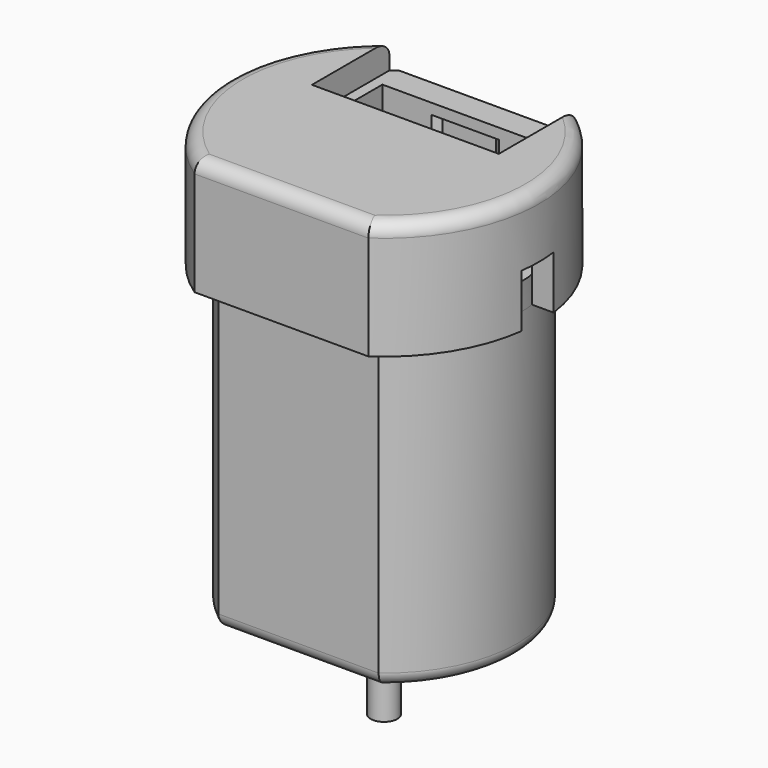
from build123d import *

# Parameters (mm, degrees)
PAD_DEPTH                      = 10.95
PAD001_DEPTH                   = 0.4
FILLET_R                       = 0.5
FILLET001_R                    = 0.5
SKETCH002_R                    = 2
PAD002_DEPTH                   = 0.5
SKETCH003_R                    = 0.5
POCKET_DEPTH                   = 46.7464158201
PAD003_DEPTH                   = 8.55
SKETCH005_R                    = 0.5
PAD004_DEPTH                   = 5.3
PAD005_DEPTH                   = 4.8
PAD005_MIRRORED003_2_DEPTH     = 4.8
POLARPATTERN_COUNT             = 3
PAD006_DEPTH                   = 1.5
POLARPATTERN001_COUNT          = 3
SKETCH008_R                    = 3
PAD007_DEPTH                   = 1.5
SKETCH009_R                    = 1.1
PAD008_DEPTH                   = 2.3
SKETCH010_R                    = 0.5
PAD009_DEPTH                   = 2.3
PAD010_DEPTH                   = 1
SKETCH012_R                    = 2
PAD011_DEPTH                   = 1
SKETCH013_R                    = 0.6
POCKET001_DEPTH                = 2.001
PAD012_DEPTH                   = 2
POCKET002_DEPTH                = 1.99
POCKET003_DEPTH                = 28.84381573
POLARPATTERN002_COUNT          = 2
SKETCH073_R                    = 1.5
POCKET037_DEPTH                = 1
SKETCH074_R                    = 2
POCKET038_DEPTH                = 1
PAD013_DEPTH                   = 1
BODY004_PLACEMENT_ANGLE        = 180
SKETCH083_R                    = 1.5
SKETCH083_R_2                  = 0.5
PAD040_DEPTH                   = 1
PAD046_DEPTH                   = 3.4
PAD045_DEPTH                   = 2.4
PAD045_POLARPATTERN007_2_DEPTH = 2.4
PAD047_DEPTH                   = 0.4
POCKET042_DEPTH                = 3.401
PAD044_DEPTH                   = 1
POCKET043_DEPTH                = 1
POCKET044_DEPTH                = 1.99
FILLET003_R                    = 0.5


with BuildPart() as body:
    # Sketch → Pad (new body)
    with BuildSketch(Plane.XY):
        with BuildLine():
            ThreePointArc((2.8635642127, -3.6), (4.6, 0), (2.8635642127, 3.6))
            Line((2.8635642127, 3.6), (0, 3.6))
            Line((0, 4), (0, 3.6))
            Line((3, 4), (0, 4))
            ThreePointArc((3, -4), (5, 0), (3, 4))
            Line((3, -4), (0, -4))
            Line((0, -3.6), (0, -4))
            Line((2.8635642127, -3.6), (0, -3.6))
        make_face()
    pad = extrude(amount=-PAD_DEPTH)

    # Mirrored: Pad across Sketch V_Axis
    add(pad.mirror(Plane(origin=(0, 0, 0), x_dir=(0, 0, 1), z_dir=(1, 0, 0))))

    # Sketch001 (on Face5 of Mirrored) → Pad001 (join)
    with BuildSketch(Plane(origin=(0, 0, -10.95), x_dir=(1, 0, 0), z_dir=(0, 0, -1))):
        with BuildLine():
            ThreePointArc((-3, 4), (-5, 0), (-3, -4))
            Line((-3, -4), (3, -4))
            ThreePointArc((3, -4), (5, 0), (3, 4))
            Line((3, 4), (-3, 4))
        make_face()
    extrude(amount=PAD001_DEPTH)

    # Fillet
    fillet_edges = [body.edges().sort_by_distance(p)[0] for p in [
        (1.431782, 3.6, -10.95),
        (4.6, 0, -10.95),
        (-4.6, 0, -10.95),
        (-1.431782, -3.6, -10.95),
    ]]
    fillet(fillet_edges, radius=FILLET_R)

    # Fillet001
    fillet001_edges = [body.edges().sort_by_distance(p)[0] for p in [
        (-5, 0, -11.35),
        (0, 4, -11.35),
        (5, 0, -11.35),
        (0, -4, -11.35),
    ]]
    fillet(fillet001_edges, radius=FILLET001_R)

    # Sketch002 (on Face8 of Fillet001) → Pad002 (join)
    with BuildSketch(Plane(origin=(0, 0, -11.35), x_dir=(1, 0, 0), z_dir=(0, 0, -1))):
        Circle(SKETCH002_R)
    extrude(amount=PAD002_DEPTH)

    # Sketch003 (on Face26 of Pad002) → Pocket (cut, through all)
    with BuildSketch(Plane(origin=(0, 0, -11.85), x_dir=(1, 0, 0), z_dir=(0, 0, -1))):
        Circle(SKETCH003_R)
        with Locations((3.25, 0)):
            Circle(SKETCH003_R)
    pocket = extrude(amount=-POCKET_DEPTH, mode=Mode.SUBTRACT)

    # Mirrored001: Pocket across Sketch003 V_Axis
    add(pocket.mirror(Plane(origin=(0, 0, -11.85), x_dir=(0, 0, -1), z_dir=(1, 0, 0))), mode=Mode.SUBTRACT)

    # Sketch004 (on Face28 of Mirrored001) → Pad003 (join)
    with BuildSketch(Plane.XY.offset(-10.95)):
        with BuildLine():
            ThreePointArc((2.8635642127, -3.6), (4.6, 0), (2.8635642127, 3.6))
            Line((2.8635642127, 3.6), (1.8635642126, 3.6))
            ThreePointArc((1.8635642126, -3.6), (3.5999999999, 0), (1.8635642126, 3.6))
            Line((2.8635642127, -3.6), (1.8635642127, -3.6))
        make_face()
    pad003 = extrude(amount=PAD003_DEPTH)

    # Mirrored002: Pad003 across Sketch004 V_Axis
    add(pad003.mirror(Plane(origin=(0, 0, -10.95), x_dir=(0, 0, 1), z_dir=(1, 0, 0))))


with BuildPart() as body001:
    # Sketch005 → Pad004 (new body)
    with BuildSketch(Plane.XY):
        Circle(SKETCH005_R)
    extrude(amount=PAD004_DEPTH)

    # Sketch006 (on Face3 of Pad004) → Pad005 (join)
    with BuildSketch(Plane.XY.offset(5.3)):
        with BuildLine():
            Line((0, 0), (0, 3.5))
            ThreePointArc((2.5545302786, 2.3925666251), (1.3921237036, 3.211228985), (0, 3.5))
            Line((2.5545302786, 2.3925666251), (1.9706376435, 1.8456942537))
            Line((0.5, 1.8456942537), (1.9706376435, 1.8456942537))
            Line((0.5, 1.8456942537), (0.5, 0))
            Line((0, 0), (0.5, 0))
        make_face()
    pad005 = extrude(amount=PAD005_DEPTH)

    # Sketch006 Mirrored003 2 → Pad005 Mirrored003 2 (add)
    with BuildSketch(Plane(origin=(0, 0, 5.3), x_dir=(-1, 0, 0), z_dir=(0, 0, -1))):
        with BuildLine():
            Line((0, 0), (0, 3.5))
            ThreePointArc((2.5545302786, 2.3925666251), (1.3921237036, 3.211228985), (0, 3.5))
            Line((2.5545302786, 2.3925666251), (1.9706376435, 1.8456942537))
            Line((0.5, 1.8456942537), (1.9706376435, 1.8456942537))
            Line((0.5, 1.8456942537), (0.5, 0))
            Line((0, 0), (0.5, 0))
        make_face()
    pad005_mirrored003_2 = extrude(amount=-PAD005_MIRRORED003_2_DEPTH)

    # PolarPattern: Pad005, Pad005 Mirrored003 2 ×3 about axis
    polarpattern_axis = Axis((0, 0, 5.3), (0, 0, 1))
    for i in range(1, POLARPATTERN_COUNT):
        add(pad005.rotate(polarpattern_axis, i * 360 / POLARPATTERN_COUNT))
        add(pad005_mirrored003_2.rotate(polarpattern_axis, i * 360 / POLARPATTERN_COUNT))

    # Sketch007 (on Face32 of MultiTransform) → Pad006 (join)
    with BuildSketch(Plane.XZ.offset(-1.8456942537)):
        with BuildLine():
            add(Edge.make_bspline(
                [(0, 4.3), (4.3301270189, 4.3), (2.1650635095, 9.4), (0, 14.5), (-2.1650635095, 9.4), (-4.3301270189, 4.3), (0, 4.3)],
                knots=[0, 0, 0, 2.0943951024, 2.0943951024, 4.1887902048, 4.1887902048, 6.2831853072, 6.2831853072, 6.2831853072], degree=2, weights=[1, 0.5, 1, 0.5, 1, 0.5, 1]))
        make_face()
    pad006 = extrude(amount=PAD006_DEPTH)

    # PolarPattern001: Pad006 ×3 about axis
    polarpattern001_axis = Axis((0, 0, 0), (0, 0, 1))
    for i in range(1, POLARPATTERN001_COUNT):
        add(pad006.rotate(polarpattern001_axis, i * 360 / POLARPATTERN001_COUNT))

    # Sketch008 (on DatumPlane) → Pad007 (join)
    with BuildSketch(Plane.XY.offset(12.5)):
        Circle(SKETCH008_R)
    extrude(amount=-PAD007_DEPTH)

    # Sketch009 (on Face87 of Pad007) → Pad008 (join)
    with BuildSketch(Plane.XY.offset(12.5)):
        Circle(SKETCH009_R)
    extrude(amount=PAD008_DEPTH)

    # Sketch010 (on Face95 of Pad008) → Pad009 (join)
    with BuildSketch(Plane.XY.offset(14.8)):
        Circle(SKETCH010_R)
    extrude(amount=PAD009_DEPTH)


with BuildPart() as body001_1:
    # Body001 placement: moved
    add(body001.part.moved(Location((0, 0, -14.8))))


with BuildPart() as body002:
    # Sketch011 → Pad010 (new body)
    with BuildSketch(Plane.XY):
        with BuildLine():
            ThreePointArc((3, -4), (5, 0), (3, 4))
            Line((3, 4), (0, 4))
            Line((0, 4), (0, -4))
            Line((0, -4), (3, -4))
        make_face()
    pad010 = extrude(amount=PAD010_DEPTH)

    # Mirrored004: Pad010 across Sketch011 V_Axis
    add(pad010.mirror(Plane(origin=(0, 0, 0), x_dir=(0, 0, 1), z_dir=(1, 0, 0))))

    # Sketch012 (on Face5 of Mirrored004) → Pad011 (join)
    with BuildSketch(Plane.XY.offset(1)):
        Circle(SKETCH012_R)
    extrude(amount=PAD011_DEPTH)

    # Sketch013 (on Face4 of Pad011) → Pocket001 (cut, through all)
    with BuildSketch(Plane(origin=(0, 0, 0), x_dir=(1, 0, 0), z_dir=(0, 0, -1))):
        Circle(SKETCH013_R)
    extrude(amount=-POCKET001_DEPTH, mode=Mode.SUBTRACT)

    # Sketch014 (on Face4 of Pocket001) → Pad012 (join)
    with BuildSketch(Plane(origin=(0, 0, 0), x_dir=(1, 0, 0), z_dir=(0, 0, -1))):
        with BuildLine():
            ThreePointArc((2.8635642127, -3.6), (4.6, 0), (2.8635642127, 3.6))
            Line((2.8635642127, 3.6), (2.4635642127, 3.6))
            Line((2.4635642127, 3.6), (2.4635642127, -3.6))
            Line((2.8635642127, -3.6), (2.4635642127, -3.6))
        make_face()
    pad012 = extrude(amount=PAD012_DEPTH)

    # Sketch015 (on Face18 of Pad012) → Pocket002 (cut)
    with BuildSketch(Plane(origin=(0, 0, -2), x_dir=(1, 0, 0), z_dir=(0, 0, -1))):
        Polygon((3.1, 2), (3.6, 2), (3.6, -2), (3.6, -4.122773), (2.06757, -4.122773), (2.06757, -2), (3.1, -2), align=None)
    pocket002 = extrude(amount=-POCKET002_DEPTH, mode=Mode.SUBTRACT)

    # Sketch016 (on Face18 of Pocket002) → Pocket003 (cut, through all)
    with BuildSketch(Plane(origin=(0, 0, -0.01), x_dir=(1, 0, 0), z_dir=(0, 0, -1))):
        Polygon((3.1, 0.8), (3.6, 0.8), (3.6, 0), (3.6, -0.8), (3.1, -0.8), align=None)
    pocket003 = extrude(amount=-POCKET003_DEPTH, mode=Mode.SUBTRACT)

    # PolarPattern002: Pad012, Pocket002, Pocket003 ×2 about axis
    polarpattern002_axis = Axis((0, 0, 0), (0, 0, 1))
    for i in range(1, POLARPATTERN002_COUNT):
        add(pad012.rotate(polarpattern002_axis, i * 360 / POLARPATTERN002_COUNT))
        add(pocket002.rotate(polarpattern002_axis, i * 360 / POLARPATTERN002_COUNT), mode=Mode.SUBTRACT)
        add(pocket003.rotate(polarpattern002_axis, i * 360 / POLARPATTERN002_COUNT), mode=Mode.SUBTRACT)

    # Sketch073 (on Face4 of MultiTransform001) → Pocket037 (cut)
    with BuildSketch(Plane(origin=(0, 0, 0), x_dir=(1, 0, 0), z_dir=(0, 0, -1))):
        Circle(SKETCH073_R)
    extrude(amount=-POCKET037_DEPTH, mode=Mode.SUBTRACT)

    # Sketch074 (on Face36 of Pocket037) → Pocket038 (cut)
    with BuildSketch(Plane.XY.offset(2)):
        Circle(SKETCH074_R)
    extrude(amount=-POCKET038_DEPTH, mode=Mode.SUBTRACT)


with BuildPart() as body004:
    # Sketch017 → Pad013 (new body)
    with BuildSketch(Plane.XY):
        with BuildLine():
            Line((3.2903202141, -1.35), (3.7903202141, -1.35))
            Line((3.7903202141, -1.35), (3.7903202141, 1.35))
            Line((3.7903202141, 1.35), (3.4903202141, 1.35))
            Line((3.4903202141, 2.0817446006), (3.4903202141, 1.35))
            ThreePointArc((3.4903202141, 2.0817446006), (3.1920911077, 2.5817446006), (2.6104341619, 2.5569293386))
            Line((-1.1096797859, 0.1172433693), (2.6104341619, 2.5569293386))
            Line((-1.1096797859, 0.1172433693), (-1, -0.05))
            Line((2.7201139478, 2.3896859693), (-1, -0.05))
            ThreePointArc((3.2903202141, 2.0817446006), (3.0970541601, 2.4057673902), (2.7201139478, 2.3896859693))
            Line((3.2903202141, 2.0817446006), (3.2903202141, -1.35))
        make_face()
    extrude(amount=-PAD013_DEPTH)


with BuildPart() as body004_1:
    # Body003 placement: moved
    add(body004.part.moved(Location((0, 0, -1))))


with BuildPart() as body004_2:
    # Clone placement: moved
    add(body004_1.part.moved(Location((0, 0, 1))))


with BuildPart() as body004_3:
    # Body004 placement: moved
    add(body004_2.part.moved(Location((0, 0, -1))).rotate(Axis((0, 0, -1), (0, 0, 1)), BODY004_PLACEMENT_ANGLE))


with BuildPart() as body005:
    # Sketch083 → Pad040 (new body)
    with BuildSketch(Plane.XY):
        Circle(SKETCH083_R)
        Circle(SKETCH083_R_2, mode=Mode.SUBTRACT)
    extrude(amount=PAD040_DEPTH)


with BuildPart() as sensormount:
    # Sketch091 → Pad046 (new body)
    with BuildSketch(Plane.XY):
        with BuildLine():
            ThreePointArc((-3.2557641192, 4.8), (-5.8, 0), (-3.2557641192, -4.8))
            Line((-3.2557641192, -4.8), (3.2557641192, -4.8))
            ThreePointArc((3.2557641192, -4.8), (5.8, 0), (3.2557641192, 4.8))
            Line((-3.2557641192, 4.8), (3.2557641192, 4.8))
        make_face()
        with BuildLine():
            ThreePointArc((3, -4), (5, 0), (3, 4))
            Line((-3, 4), (3, 4))
            ThreePointArc((-3, 4), (-5, 0), (-3, -4))
            Line((-3, -4), (3, -4))
        make_face(mode=Mode.SUBTRACT)
    extrude(amount=PAD046_DEPTH)

    # Sketch090 (on Face10 of Pad046) → Pad045 (join)
    with BuildSketch(Plane.XY.offset(3.4)):
        with BuildLine():
            ThreePointArc((-3, 4), (-4.2247448714, 2.6742346142), (-4.8989794856, 1))
            Line((-4.8989794856, 1), (-1, 4))
            Line((-3, 4), (-1, 4))
        make_face()
    pad045 = extrude(amount=-PAD045_DEPTH)

    # Sketch090 PolarPattern007 2 → Pad045 PolarPattern007 2 (add)
    with BuildSketch(Plane(origin=(0, 0, 3.4), x_dir=(-1, 0, 0), z_dir=(0, 0, 1))):
        with BuildLine():
            ThreePointArc((-3, 4), (-4.2247448714, 2.6742346142), (-4.8989794856, 1))
            Line((-4.8989794856, 1), (-1, 4))
            Line((-3, 4), (-1, 4))
        make_face()
    pad045_polarpattern007_2 = extrude(amount=-PAD045_POLARPATTERN007_2_DEPTH)

    # Mirrored011: Pad045, Pad045 PolarPattern007 2 across YZ
    add(pad045.mirror(Plane.YZ))
    add(pad045_polarpattern007_2.mirror(Plane.YZ))

    # Sketch092 (on Face5 of MultiTransform009) → Pad047 (join)
    with BuildSketch(Plane.XY.offset(3.4)):
        with BuildLine():
            Line((3, -4), (-3, -4))
            ThreePointArc((-3, 4), (-5, 0), (-3, -4))
            Line((-3, 4), (3, 4))
            ThreePointArc((3, -4), (5, 0), (3, 4))
        make_face()
    extrude(amount=-PAD047_DEPTH)

    # Sketch086 (on Face5 of Pad047) → Pocket042 (cut, through all)
    with BuildSketch(Plane.XY.offset(3.4)):
        Polygon((-3.1, 3.8), (3.1, 3.8), (3.1, 1.6), (0, 1.6), (-3.1, 1.6), align=None)
    extrude(amount=-POCKET042_DEPTH, mode=Mode.SUBTRACT)

    # Sketch087 (on Face5 of Pocket042) → Pad044 (join)
    with BuildSketch(Plane.XY.offset(3.4)):
        with BuildLine():
            ThreePointArc((3.2557641192, -4.8), (5.8, 0), (3.2557641192, 4.8))
            Line((-3.2557641192, 4.8), (3.2557641192, 4.8))
            ThreePointArc((-3.2557641192, 4.8), (-5.8, 0), (-3.2557641192, -4.8))
            Line((-3.2557641192, -4.8), (3.2557641192, -4.8))
        make_face()
    extrude(amount=PAD044_DEPTH)

    # Sketch089 (on Face13 of Pad044) → Pocket043 (cut)
    with BuildSketch(Plane.XY.offset(4.4)):
        Polygon((3.5, 6), (3.5, 1), (-3.5, 1), (-3.5, 6), (0, 6), align=None)
    extrude(amount=-POCKET043_DEPTH, mode=Mode.SUBTRACT)

    # Sketch088 → Pocket044 (cut)
    with BuildSketch(Plane.XY):
        Polygon((-5.989250003, 0.75), (6.010749997, 0.75), (6.010749997, 0), (6.010749997, -0.75), (-5.989250003, -0.75), align=None)
    extrude(amount=POCKET044_DEPTH, mode=Mode.SUBTRACT)

    # Fillet003
    fillet003_edges = [sensormount.edges().sort_by_distance(p)[0] for p in [
        (0, -4.8, 4.4),
        (5.798054, -0.15025, 4.4),
        (-5.798054, -0.15025, 4.4),
    ]]
    fillet(fillet003_edges, radius=FILLET003_R)


solid = Compound([body.part, body001_1.part, body002.part, body004_3.part, body005.part, sensormount.part])
